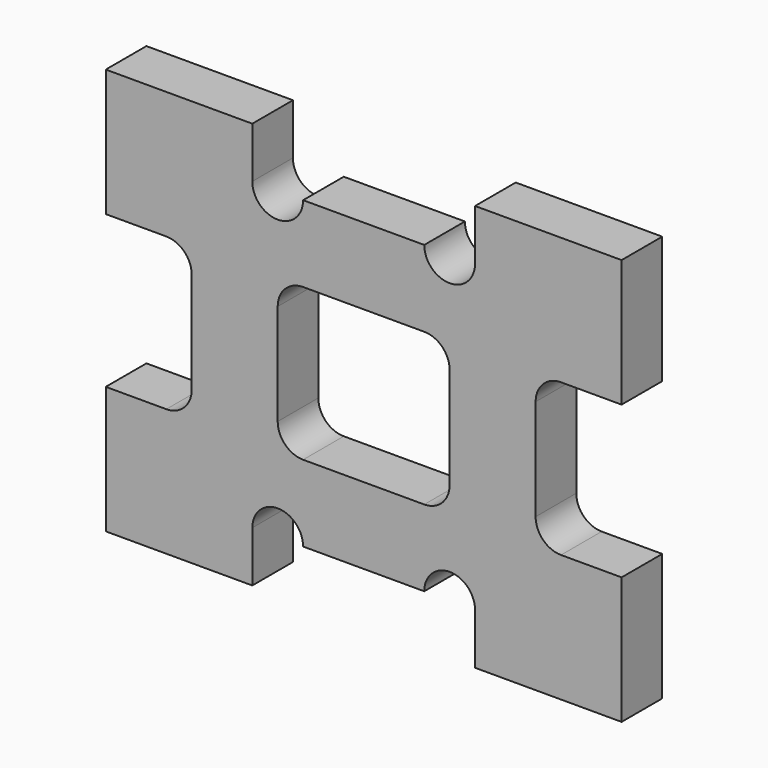
from build123d import *

# Parameters (mm, degrees)
F1_DEPTH = 6.35


with BuildPart() as f1:
    # F0 (on Front) → F1 (new body)
    with BuildSketch(Plane.XZ):
        with BuildLine():
            Line((-13.917371, -25.4), (-13.917371, -19.05))
            ThreePointArc((-13.917371, -19.05), (-10.742371, -15.875), (-7.567371, -19.05))
            Line((-7.567371, -19.05), (7.567371, -19.05))
            ThreePointArc((7.567371, -19.05), (10.742371, -15.875), (13.917371, -19.05))
            Line((13.917371, -19.05), (13.917371, -25.4))
            Line((13.917371, -25.4), (32.227114, -25.4))
            Line((32.227114, -25.4), (32.227114, -9.4996))
            Line((32.227114, -9.4996), (24.659743, -9.4996))
            ThreePointArc((24.659743, -9.4996), (22.414679, -8.569664), (21.484743, -6.3246))
            Line((21.484743, -6.3246), (21.484743, 6.3246))
            ThreePointArc((21.484743, 6.3246), (22.414679, 8.569664), (24.659743, 9.4996))
            Line((24.659743, 9.4996), (32.227114, 9.4996))
            Line((32.227114, 9.4996), (32.227114, 25.4))
            Line((32.227114, 25.4), (13.917371, 25.4))
            Line((13.917371, 25.4), (13.917371, 19.05))
            ThreePointArc((13.917371, 19.05), (10.742371, 15.875), (7.567371, 19.05))
            Line((7.567371, 19.05), (-7.567371, 19.05))
            ThreePointArc((-7.567371, 19.05), (-10.742371, 15.875), (-13.917371, 19.05))
            Line((-13.917371, 19.05), (-13.917371, 25.4))
            Line((-13.917371, 25.4), (-32.227113, 25.4))
            Line((-32.227113, 25.4), (-32.227113, 9.4996))
            Line((-32.227113, 9.4996), (-24.659742, 9.4996))
            ThreePointArc((-24.659742, 9.4996), (-22.414678, 8.569664), (-21.484742, 6.3246))
            Line((-21.484742, 6.3246), (-21.484742, -6.3246))
            ThreePointArc((-21.484742, -6.3246), (-22.414678, -8.569664), (-24.659742, -9.4996))
            Line((-24.659742, -9.4996), (-32.227113, -9.4996))
            Line((-32.227113, -9.4996), (-32.227113, -25.4))
            Line((-32.227113, -25.4), (-13.917371, -25.4))
        make_face()
        with BuildLine():
            Line((-7.567371, 9.4996), (7.567371, 9.4996))
            ThreePointArc((7.567371, 9.4996), (9.812435, 8.569664), (10.742371, 6.3246))
            Line((10.742371, 6.3246), (10.742371, -6.3246))
            ThreePointArc((10.742371, -6.3246), (9.812435, -8.569664), (7.567371, -9.4996))
            Line((7.567371, -9.4996), (-7.567371, -9.4996))
            ThreePointArc((-7.567371, -9.4996), (-9.812435, -8.569664), (-10.742371, -6.3246))
            Line((-10.742371, -6.3246), (-10.742371, 6.3246))
            ThreePointArc((-10.742371, 6.3246), (-9.812435, 8.569664), (-7.567371, 9.4996))
        make_face(mode=Mode.SUBTRACT)
    extrude(amount=F1_DEPTH)


solid = f1.part
